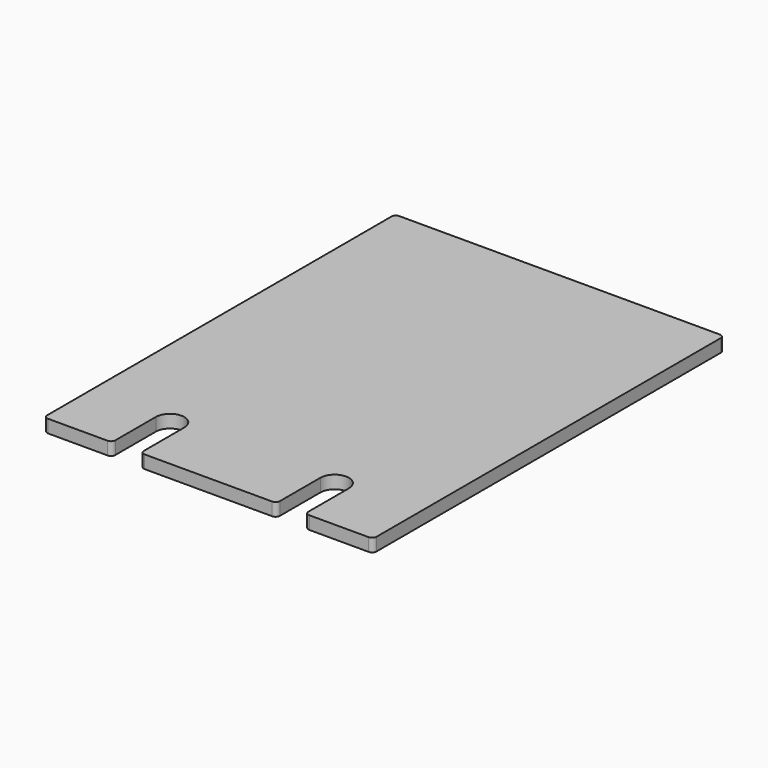
from build123d import *

# Parameters (mm, degrees)
PAD_DEPTH = 3


with BuildPart() as part:
    # Sketch → Pad (new body)
    with BuildSketch(Plane.XY):
        with BuildLine():
            ThreePointArc((-37.1, 50.8), (-37.807107, 50.507107), (-38.1, 49.8))
            Line((-38.1, -49.8), (-38.1, 49.8))
            ThreePointArc((-38.1, -49.8), (-37.807107, -50.507107), (-37.1, -50.8))
            Line((-37.1, -50.8), (-23.352, -50.8))
            ThreePointArc((-23.352, -50.8), (-22.644893, -50.507107), (-22.352, -49.8))
            Line((-22.352, -38.1), (-22.352, -49.8))
            ThreePointArc((-15.748, -38.1), (-19.05, -34.798), (-22.352, -38.1))
            Line((-15.748, -38.1), (-15.748, -49.8))
            ThreePointArc((-15.748, -49.8), (-15.455107, -50.507107), (-14.748, -50.8))
            Line((-14.748, -50.8), (14.748, -50.8))
            ThreePointArc((14.748, -50.8), (15.455107, -50.507107), (15.748, -49.8))
            Line((15.748, -38.1), (15.748, -49.8))
            ThreePointArc((22.352, -38.1), (19.05, -34.798), (15.748, -38.1))
            Line((22.352, -38.1), (22.352, -49.8))
            ThreePointArc((22.352, -49.8), (22.644893, -50.507107), (23.352, -50.8))
            Line((23.352, -50.8), (37.1, -50.8))
            ThreePointArc((37.1, -50.8), (37.807107, -50.507107), (38.1, -49.8))
            Line((38.1, 49.8), (38.1, -49.8))
            ThreePointArc((38.1, 49.8), (37.807107, 50.507107), (37.1, 50.8))
            Line((-37.1, 50.8), (37.1, 50.8))
        make_face()
    extrude(amount=PAD_DEPTH)


solid = part.part
